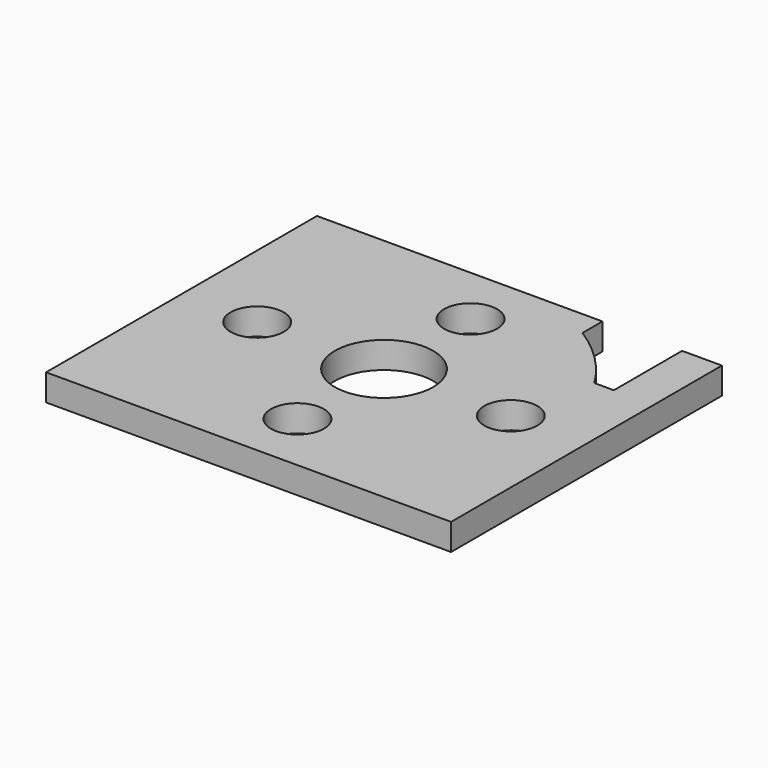
from build123d import *

# Parameters (mm, degrees)
F0_R     = 2
F0_R_2   = 3.7
F1_DEPTH = 2


with BuildPart() as f1:
    # F0 (on Top) → F1 (new body)
    with BuildSketch(Plane.XY):
        with BuildLine():
            Line((-46.001172, 36.143356), (-46.001172, 10.643356))
            Line((-46.001172, 10.643356), (-15.501172, 10.643356))
            Line((-15.501172, 10.643356), (-15.501172, 36.143356))
            Line((-15.501172, 36.143356), (-18.501172, 36.143356))
            Line((-18.501172, 36.143356), (-18.501172, 29.719366))
            Line((-18.501172, 29.719366), (-19.970096, 29.719366))
            ThreePointArc((-19.970096, 29.719366), (-21.976761, 32.251714), (-24.501172, 34.268356))
            Line((-24.501172, 34.268356), (-24.501172, 36.143356))
            Line((-24.501172, 36.143356), (-46.001172, 36.143356))
        make_face()
        with Locations((-40.301172, 23.393356)):
            Circle(F0_R, mode=Mode.SUBTRACT)
        with Locations((-30.751172, 15.243356)):
            Circle(F0_R, mode=Mode.SUBTRACT)
        with Locations((-30.751172, 23.393356)):
            Circle(F0_R_2, mode=Mode.SUBTRACT)
        with Locations((-21.201172, 23.393356)):
            Circle(F0_R, mode=Mode.SUBTRACT)
        with Locations((-30.751172, 31.543356)):
            Circle(F0_R, mode=Mode.SUBTRACT)
    extrude(amount=F1_DEPTH)


solid = f1.part
